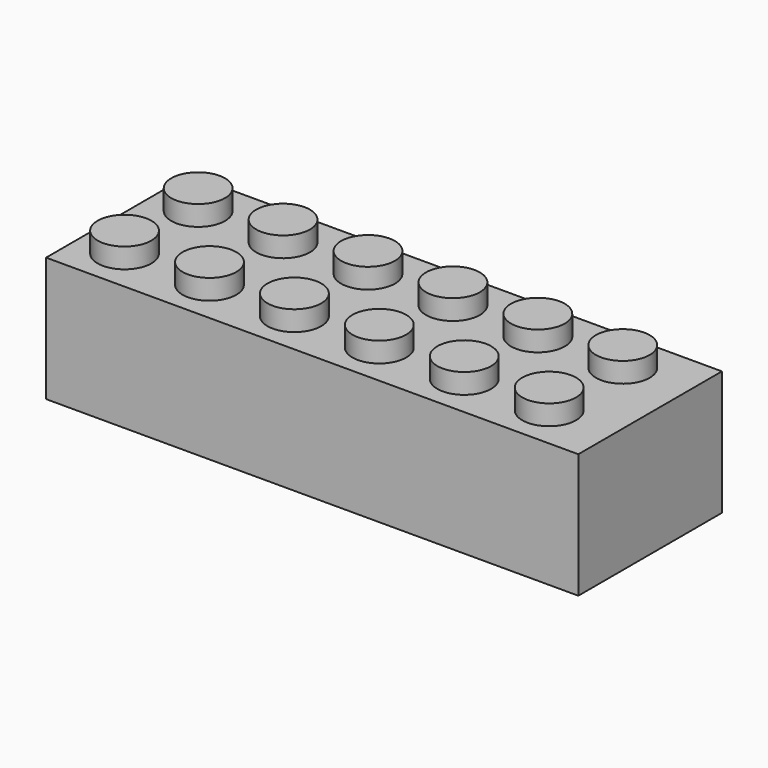
from build123d import *

# Parameters (mm, degrees)
F0_W     = 47.752
F0_H     = 16.1036
F1_DEPTH = 5.588
F2_R     = 2.413
F3_DEPTH = 1.8034
F5_W     = 45.212
F5_H     = 13.5636
F5_R     = 3.2512
F6_DEPTH = 9.906


with BuildPart() as f1:
    # F0 (on Top) → F1 (new body, symmetric)
    with BuildSketch(Plane.XY):
        Rectangle(F0_W, F0_H)
    extrude(amount=F1_DEPTH, both=True)

    # F2 (on face) → F3 (join)
    with BuildSketch(Plane.XY.offset(5.588)):
        with Locations((-19.9771, 4.1275)):
            Circle(F2_R)
        with Locations((-12.3571, 4.1275)):
            Circle(F2_R)
        with Locations((-4.7371, 4.1275)):
            Circle(F2_R)
        with Locations((2.8829, 4.1275)):
            Circle(F2_R)
        with Locations((10.5029, 4.1275)):
            Circle(F2_R)
        with Locations((-19.9771, -4.1275)):
            Circle(F2_R)
        with Locations((-12.3571, -4.1275)):
            Circle(F2_R)
        with Locations((-4.7371, -4.1275)):
            Circle(F2_R)
        with Locations((2.8829, -4.1275)):
            Circle(F2_R)
        with Locations((10.5029, -4.1275)):
            Circle(F2_R)
        with Locations((18.1229, 4.1275)):
            Circle(F2_R)
        with Locations((18.1229, -4.1275)):
            Circle(F2_R)
        with Locations((18.1229, 4.1275)):
            Circle(F2_R)
    extrude(amount=F3_DEPTH)

    # F5 (on face) → F6 (cut)
    with BuildSketch(Plane(origin=(0, 0, -5.588), x_dir=(1, 0, 0), z_dir=(0, 0, -1))):
        Rectangle(F5_W, F5_H)
        with Locations((-16.51, 0)):
            Circle(F5_R, mode=Mode.SUBTRACT)
        with Locations((-8.3058, 0)):
            Circle(F5_R, mode=Mode.SUBTRACT)
        with Locations((-0.1016, 0)):
            Circle(F5_R, mode=Mode.SUBTRACT)
        with Locations((8.1026, 0)):
            Circle(F5_R, mode=Mode.SUBTRACT)
        with Locations((16.3068, 0)):
            Circle(F5_R, mode=Mode.SUBTRACT)
    extrude(amount=-F6_DEPTH, mode=Mode.SUBTRACT)


solid = f1.part
